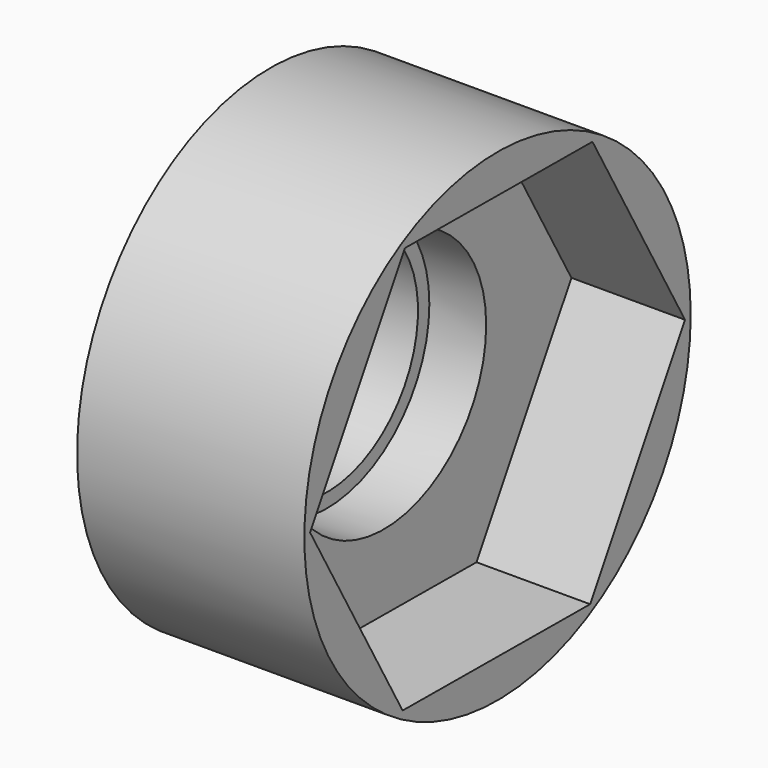
from build123d import *

# Parameters (mm, degrees)
F0_R      = 8.5
F1_DEPTH  = 8
F3_DEPTH  = 4
F4_R      = 7.75
F5_DEPTH  = 1.5
F7_R      = 4.5
F8_DEPTH  = 25
F6_R      = 4.5
F9_DEPTH  = 2
F10_R     = 4
F11_DEPTH = 10


with BuildPart() as f1:
    # F0 (on Right) → F1 (new body)
    with BuildSketch(Plane.YZ):
        with Locations((-38.9976724982, 9.3536879867)):
            Circle(F0_R)
    extrude(amount=F1_DEPTH)

    # F2 (on face) → F3 (cut)
    with BuildSketch(Plane.YZ.offset(8)):
        Polygon((-34.8214355244, 16.4690979189), (-43.0716797709, 16.5281202644), (-47.2479167448, 9.4127103322), (-43.1739094721, 2.2382780545), (-34.9236652255, 2.1792557091), (-30.7474282517, 9.2946656413), align=None)
    extrude(amount=-F3_DEPTH, mode=Mode.SUBTRACT)

    # F4 (on face) → F5 (cut)
    with BuildSketch(Plane(origin=(0, 0, 0), x_dir=(0, -1, 0), z_dir=(-1, 0, 0))):
        with Locations((38.9976724982, 9.3536879867)):
            Circle(F4_R)
    extrude(amount=-F5_DEPTH, mode=Mode.SUBTRACT)

    # F7 (on face) → F8 (cut)
    with BuildSketch(Plane.YZ.offset(4)):
        with Locations((-38.9976724982, 9.3536879867)):
            Circle(F7_R)
    extrude(amount=-F8_DEPTH, mode=Mode.SUBTRACT)

    # F6 (on face) → F9 (join)
    with BuildSketch(Plane(origin=(0, 0, 0), x_dir=(0, -1, 0), z_dir=(-1, 0, 0))):
        with Locations((38.9976724982, 9.3536879867)):
            Circle(F6_R)
    extrude(amount=-F9_DEPTH)

    # F10 (on face) → F11 (cut)
    with BuildSketch(Plane(origin=(0, 0, 0), x_dir=(0, -1, 0), z_dir=(-1, 0, 0))):
        with Locations((38.9976724982, 9.3536879867)):
            Circle(F10_R)
    extrude(amount=-F11_DEPTH, mode=Mode.SUBTRACT)


solid = f1.part
